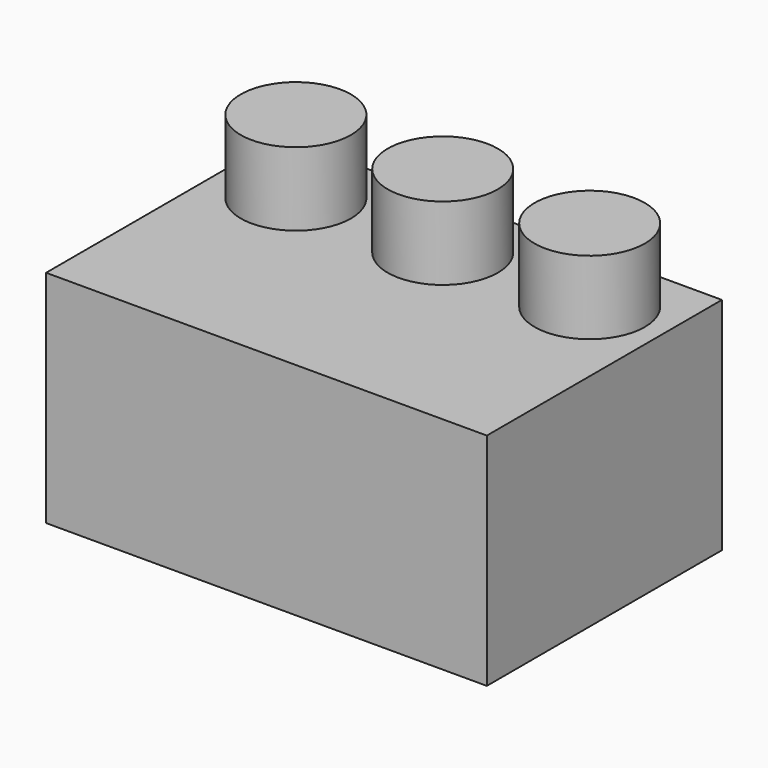
from build123d import *

# Parameters (mm, degrees)
F0_W     = 76.2
F0_H     = 50.8
F1_DEPTH = 38.1
F2_R     = 9.525
F3_DEPTH = 12.7


with BuildPart() as f1:
    # F0 (on Top) → F1 (new body)
    with BuildSketch(Plane.XY):
        Rectangle(F0_W, F0_H)
    extrude(amount=F1_DEPTH)

    # F2 (on face) → F3 (join)
    with BuildSketch(Plane.XY.offset(38.1)):
        with Locations((-25.4, 12.7)):
            Circle(F2_R)
        with Locations((0, 12.7)):
            Circle(F2_R)
        with Locations((25.4, 12.7)):
            Circle(F2_R)
    extrude(amount=F3_DEPTH)


solid = f1.part
